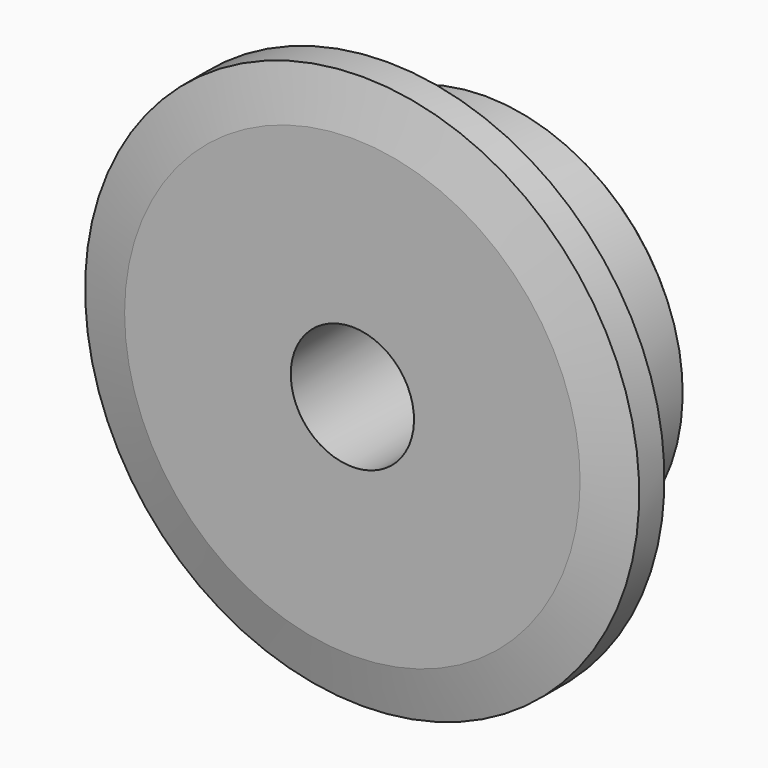
from build123d import *

# Parameters (mm, degrees)
F0_W     = 7.2136
F0_H     = 10.287
F0_H_2   = 17.4625
F0_W_2   = 15.0114
F2_R     = 1.5875
F3_SIZE  = 0.79375
F4_SIZE2 = 6.35
F4_SIZE  = 1.5748


with BuildPart() as f1:
    # F0 (on Right) → F1 (revolve)
    with BuildSketch(Plane.YZ):
        with Locations((-43.2814875573, 67.1015841899)):
            Rectangle(F0_W, F0_H)
        with Locations((-43.2814875573, 53.2268341899)):
            Rectangle(F0_W, F0_H_2)
        with Locations((-32.1689875573, 53.2268341899)):
            Rectangle(F0_W_2, F0_H_2)
    revolve(axis=Axis((0, -35.7757875573, 36.5580841899), (0, 1, 0)))

    # F2
    f2_edges = [f1.edges().sort_by_distance(p)[0] for p in [
        (0, -39.674688, 11.158084),
    ]]
    fillet(f2_edges, radius=F2_R)

    # F3
    f3_edges = [f1.edges().sort_by_distance(p)[0] for p in [
        (0, -24.663288, 11.158084),
    ]]
    chamfer(f3_edges, length=F3_SIZE)

    # F4
    f4_edges = [f1.edges().sort_by_distance(p)[0] for p in [
        (0, -46.888288, 0.871084),
        (0, -39.674688, 0.871084),
    ]]
    f4_side = f1.faces().sort_by_distance((0, -43.281488, 0.871084))[0]
    chamfer(f4_edges, length=F4_SIZE, length2=F4_SIZE2, reference=f4_side)


solid = f1.part
